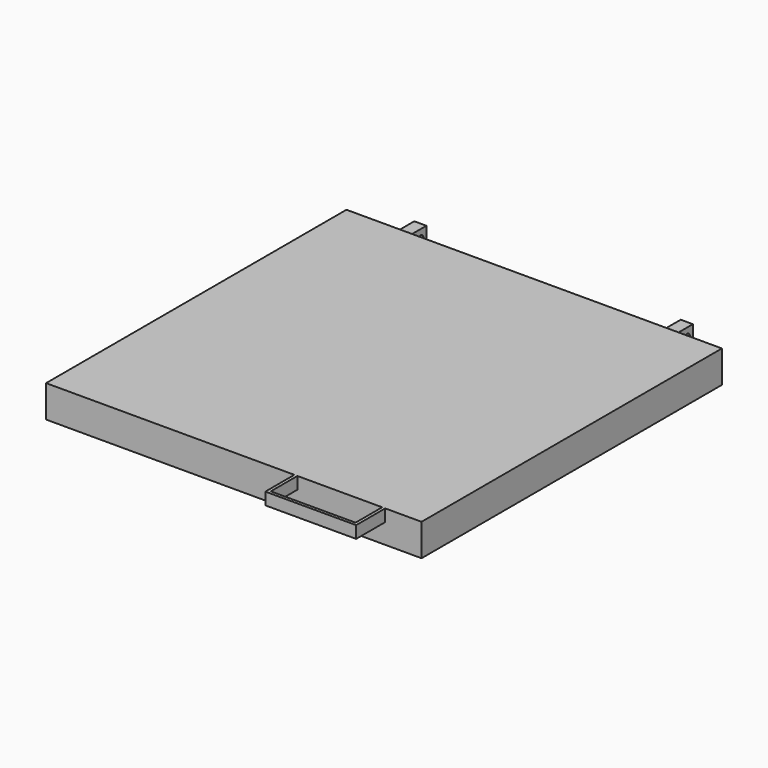
from build123d import *

# Parameters (mm, degrees)
F0_W      = 620
F0_H      = 620
F1_DEPTH  = 3
F2_W      = 620
F2_H      = 620
F2_W_2    = 616
F2_H_2    = 616
F3_DEPTH  = 25
F4_DEPTH  = 25
F5_W      = 150
F5_H      = 20
F6_DEPTH  = 60
F7_W      = 140
F7_H      = 55
F8_DEPTH  = 25
F9_W      = 20
F9_H      = 30
F10_DEPTH = 40
F11_R     = 6
F12_DEPTH = 540.001


with BuildPart() as f1:
    # F0 (on Top) → F1 (new body)
    with BuildSketch(Plane.XY):
        Rectangle(F0_W, F0_H)
    extrude(amount=F1_DEPTH)

    # F2 (on face) → F3 (join)
    with BuildSketch(Plane(origin=(0, 0, 0), x_dir=(1, 0, 0), z_dir=(0, 0, -1))):
        Rectangle(F2_W, F2_H)
        Rectangle(F2_W_2, F2_H_2, mode=Mode.SUBTRACT)
    extrude(amount=F3_DEPTH)

    # F4 (add): a face of the model
    f4_faces = [f1.faces().sort_by_distance(p)[0] for p in [
        (0, 0, 3),
    ]]
    extrude(f4_faces, amount=F4_DEPTH)

    # F5 (on face) → F6 (join)
    with BuildSketch(Plane.XZ.offset(310)):
        with Locations((175, 18)):
            Rectangle(F5_W, F5_H)
    extrude(amount=F6_DEPTH)

    # F7 (on face) → F8 (cut)
    with BuildSketch(Plane.XY.offset(28)):
        with Locations((175, -337.5)):
            Rectangle(F7_W, F7_H)
    extrude(amount=-F8_DEPTH, mode=Mode.SUBTRACT)

    # F9 (on face) → F10 (join)
    with BuildSketch(Plane(origin=(0, 310, 0), x_dir=(-1, 0, 0), z_dir=(0, 1, 0))):
        with Locations((220, 6)):
            Rectangle(F9_W, F9_H)
        with Locations((-220, 6)):
            Rectangle(F9_W, F9_H)
    extrude(amount=F10_DEPTH)

    # F11 (on face) → F12 (cut, through all)
    with BuildSketch(Plane.YZ.offset(230)):
        with Locations((338, 6)):
            Circle(F11_R)
    extrude(amount=-F12_DEPTH, mode=Mode.SUBTRACT)


solid = f1.part
